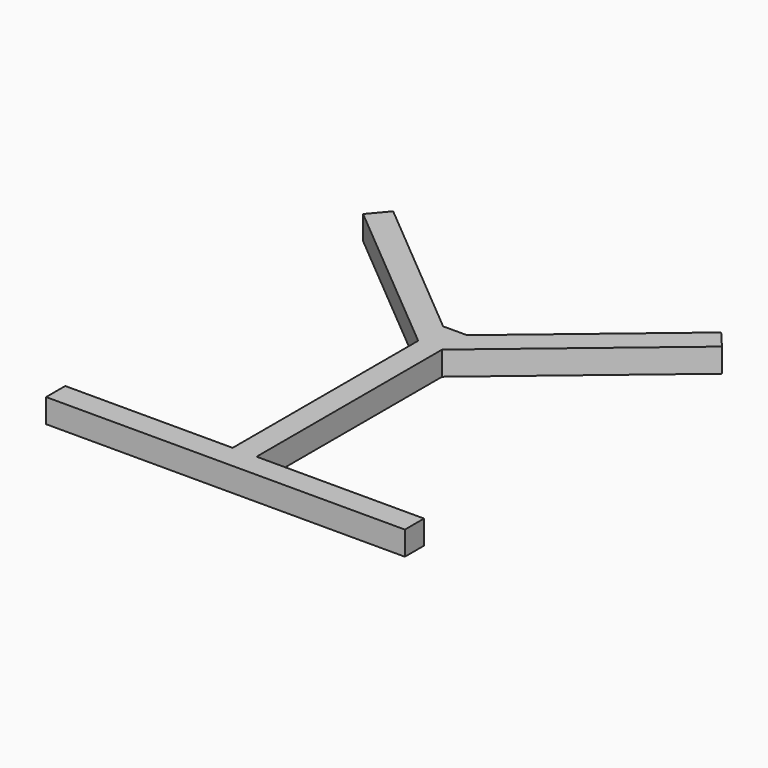
from build123d import *

# Parameters (mm, degrees)
F1_DEPTH = 5


with BuildPart() as f1:
    # F0 (on Top) → F1 (new body, symmetric)
    with BuildSketch(Plane.XY):
        Polygon((5, 57.5), (-5, 57.5), (-68.572124, 110.843346), (-75, 103.182901), (-5, 44.445927), (-5, -52.5), (-75, -52.5), (-75, -62.5), (75, -62.5), (75, -52.5), (5, -52.5), (5, 44.445927), (75, 103.182901), (68.572124, 110.843346), align=None)
    extrude(amount=F1_DEPTH, both=True)


solid = f1.part
